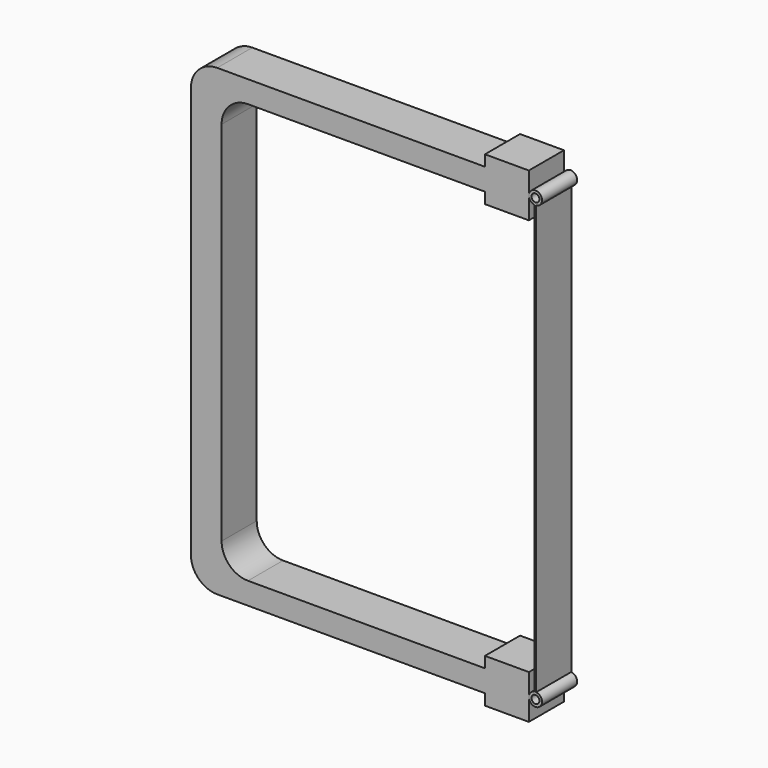
from build123d import *

# Parameters (mm, degrees)
F0_R     = 4.5
F1_DEPTH = 50
F2_W     = 2
F2_H     = 488
F3_DEPTH = 50


with BuildPart() as f1:
    # F0 (on Front) → F1 (new body)
    with BuildSketch(Plane.XZ):
        with BuildLine():
            Line((135.000001, 276.5), (135.000001, 264))
            Line((135.000001, 264), (-169.999999, 264))
            ThreePointArc((-169.999999, 264), (-191.213203, 255.213203), (-199.999999, 234))
            Line((-199.999999, 234), (-200.000001, -234))
            ThreePointArc((-200.000001, -234), (-191.213204, -255.213204), (-170, -264))
            Line((-170, -264), (134.999999, -264))
            Line((134.999999, -264), (134.999999, -276.5))
            Line((134.999999, -276.5), (140, -276.5))
            Line((140, -276.5), (184.999999, -276.5))
            Line((184.999999, -276.5), (184.999999, -251.5))
            Line((184.999999, -251.5), (184.999999, -226.5))
            Line((184.999999, -226.5), (134.999999, -226.5))
            Line((134.999999, -226.5), (134.999999, -239))
            Line((134.999999, -239), (-135.000001, -239))
            ThreePointArc((-135.000001, -239), (-156.213204, -230.213203), (-165.000001, -209))
            Line((-165.000001, -209), (-164.999999, 209))
            ThreePointArc((-164.999999, 209), (-156.213203, 230.213203), (-134.999999, 239))
            Line((-134.999999, 239), (135.000001, 239))
            Line((135.000001, 239), (135.000001, 226.5))
            Line((135.000001, 226.5), (185.000001, 226.5))
            Line((185.000001, 226.5), (185.000001, 251.5))
            Line((185.000001, 251.5), (185.000001, 276.5))
            Line((185.000001, 276.5), (135.000001, 276.5))
        make_face()
        with BuildLine():
            ThreePointArc((200.000001, 251.5), (192.500001, 259), (185.000001, 251.5))
            ThreePointArc((185.000001, 251.5), (192.500001, 244), (200.000001, 251.5))
        make_face()
        with Locations((192.500001, 251.5)):
            Circle(F0_R, mode=Mode.SUBTRACT)
        with BuildLine():
            ThreePointArc((199.999999, -251.5), (192.499999, -244), (184.999999, -251.5))
            ThreePointArc((184.999999, -251.5), (192.499999, -259), (199.999999, -251.5))
        make_face()
        with Locations((192.499999, -251.5)):
            Circle(F0_R, mode=Mode.SUBTRACT)
    extrude(amount=F1_DEPTH)

    # F2 (on Front) → F3 (join)
    with BuildSketch(Plane.XZ):
        with Locations((192.333532, 0)):
            Rectangle(F2_W, F2_H)
    extrude(amount=F3_DEPTH)


solid = f1.part
